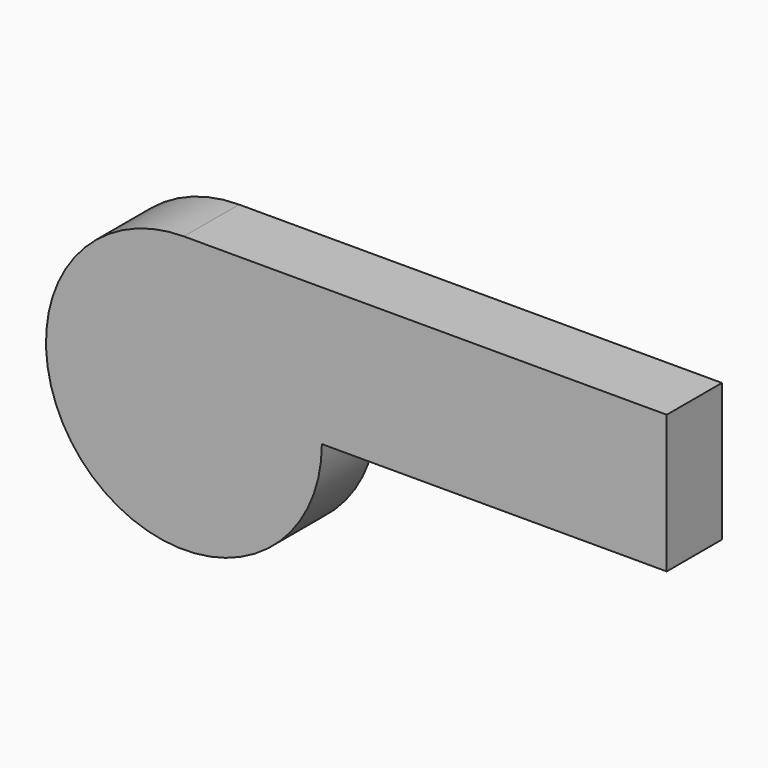
from build123d import *

# Parameters (mm, degrees)
F0_W      = 177.8
F0_H      = 50.8
F1_DEPTH  = 25.4
F1_FACE_W = 25.4
F1_FACE_H = 50.8


with BuildPart() as f1:
    # F0 (on Front) → F1 (new body)
    with BuildSketch(Plane.XZ):
        with Locations((-17.07658, -51.37748)):
            Rectangle(F0_W, F0_H)
    extrude(amount=F1_DEPTH)

    # F1_face (on face) → F2 (revolve)
    with BuildSketch(Plane(origin=(-105.97658, -12.7, -51.37748), x_dir=(0, -1, 0), z_dir=(-1, 0, 0))):
        Rectangle(F1_FACE_W, F1_FACE_H)
    revolve(axis=Axis((-105.97658, -12.7, -76.77748), (0, -1, 0)))


solid = f1.part
